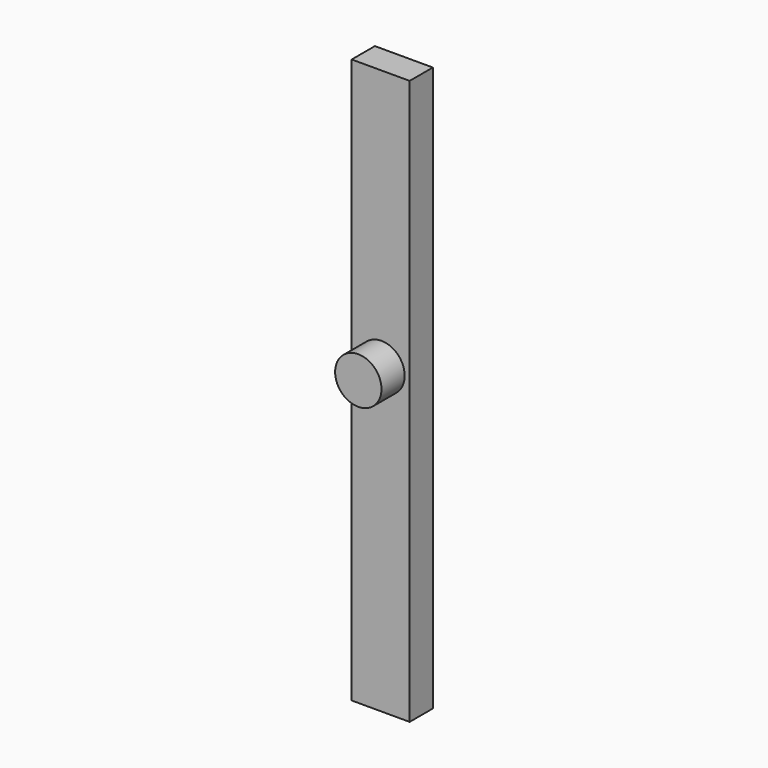
from build123d import *

# Parameters (mm, degrees)
F0_W     = 25.4
F0_H     = 247.304687
F0_R     = 10.16
F1_DEPTH = 12.7
F2_DEPTH = 25.4


with BuildPart() as f1:
    # F0 (on Front) → F1 (new body)
    with BuildSketch(Plane.XZ):
        with Locations((12.7, -23.54492)):
            Rectangle(F0_W, F0_H)
        with Locations((13.056295, -14.342986)):
            Circle(F0_R, mode=Mode.SUBTRACT)
    extrude(amount=F1_DEPTH)

    # F0 (on Front) → F2 (join)
    with BuildSketch(Plane.XZ):
        with Locations((13.056295, -14.342986)):
            Circle(F0_R)
    extrude(amount=F2_DEPTH)


solid = f1.part
